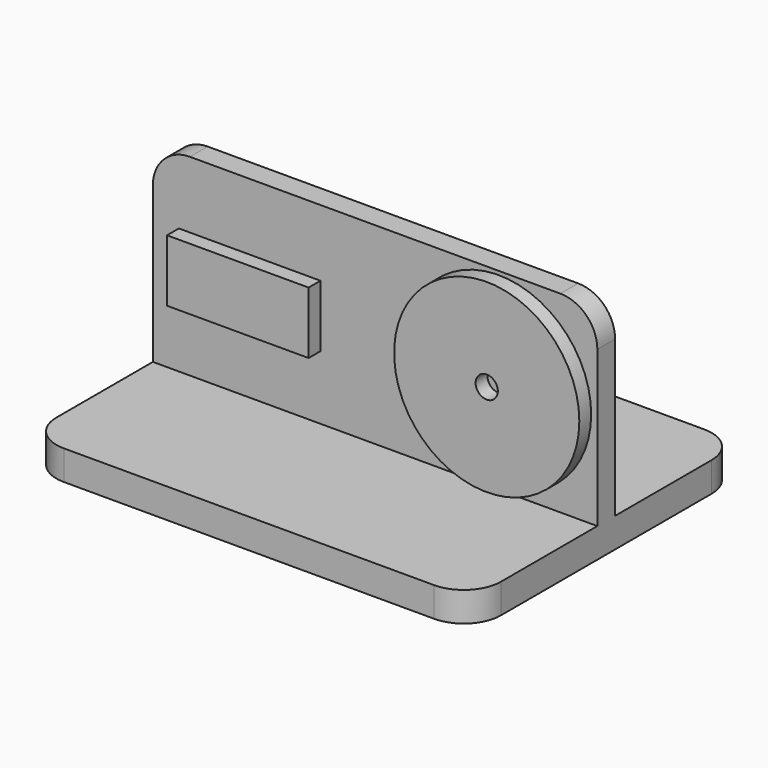
from build123d import *

# Parameters (mm, degrees)
F1_DEPTH      = 4
F2_W          = 60
F2_H          = 30
F3_DEPTH      = 1.5
F3_DEPTH_BACK = 1.5
F4_R          = 5
F5_R          = 5
F6_R          = 12.5
F6_R_2        = 1.5
F6_W          = 19.108927
F6_H          = 8.373576
F7_DEPTH      = 2


with BuildPart() as f1:
    # F0 (on Top) → F1 (new body)
    with BuildSketch(Plane.XY):
        Polygon((-30, -22.77798), (30, -22.77798), (30, 0), (0, 0), (-30, 0), align=None)
        Polygon((0, 0), (30, 0), (30, 22.77798), (-30, 22.77798), (-30, 0), align=None)
    extrude(amount=F1_DEPTH)

    # F2 (on Front) → F3 (join, two sides)
    with BuildSketch(Plane.XZ) as f3_sk:
        with Locations((0, 15)):
            Rectangle(F2_W, F2_H)
    extrude(amount=F3_DEPTH)
    extrude(f3_sk.sketch, amount=-F3_DEPTH_BACK)

    # F4
    f4_edges = [f1.edges().sort_by_distance(p)[0] for p in [
        (-30, -22.77798, 2),
        (30, -22.77798, 2),
        (30, 22.77798, 2),
        (-30, 22.77798, 2),
    ]]
    fillet(f4_edges, radius=F4_R)

    # F5
    f5_edges = [f1.edges().sort_by_distance(p)[0] for p in [
        (-30, 0, 30),
        (30, 0, 30),
    ]]
    fillet(f5_edges, radius=F5_R)

    # F6 (on face) → F7 (join)
    with BuildSketch(Plane.XZ.offset(1.5)):
        with Locations((16.666592, 17)):
            Circle(F6_R)
        with Locations((16.666592, 17)):
            Circle(F6_R_2, mode=Mode.SUBTRACT)
        with Locations((-16.935061, 16.813212)):
            Rectangle(F6_W, F6_H)
    extrude(amount=F7_DEPTH)


solid = f1.part
